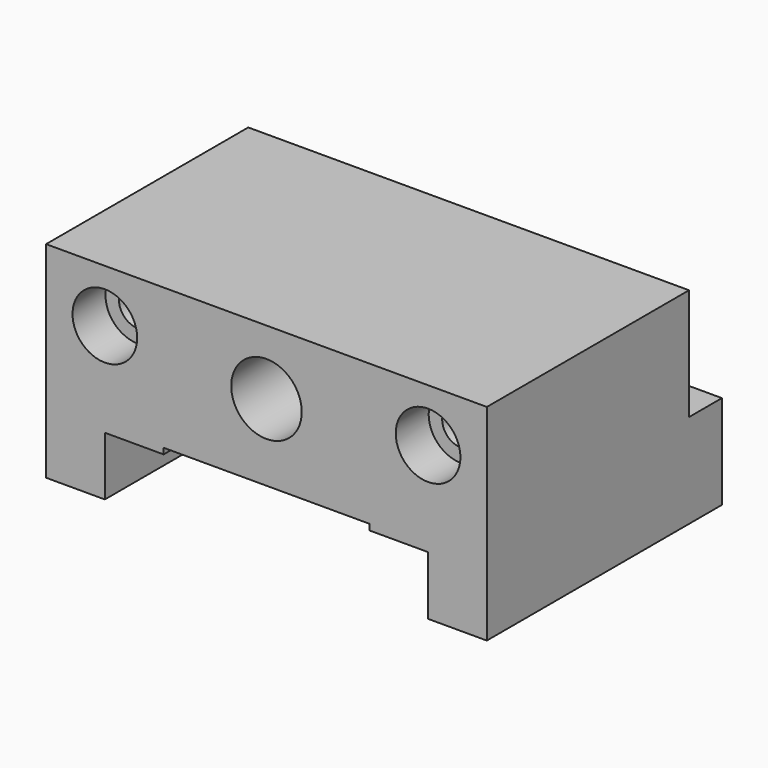
from build123d import *

# Parameters (mm, degrees)
F1_DEPTH       = 25
F2_W           = 7
F2_H           = 19
F3_DEPTH       = 37.501
F5_D           = 4.2
F5_DEPTH       = 12
F5_TIP         = 1.2618073
F7_D           = 6.4
F7_CBORE_D     = 11
F7_CBORE_DEPTH = 7
F9_R           = 6
F10_DEPTH      = 20


with BuildPart() as f1:
    # F0 (on Front) → F1 (new body, symmetric)
    with BuildSketch(Plane.XZ):
        Polygon((-17.5, 0), (0, 0), (0, 24), (-37.5, 24), (-37.5, -11), (-27.5, -11), (-27.5, -1), (-17.5, -1), align=None)
    extrude(amount=F1_DEPTH, both=True)

    # F2 (on Right) → F3 (cut, through all)
    with BuildSketch(Plane.YZ):
        with Locations((21.5, 14.5)):
            Rectangle(F2_W, F2_H)
    extrude(amount=-F3_DEPTH, mode=Mode.SUBTRACT)

    # F5
    with Locations(Plane(origin=(0, 0, -11), x_dir=(1, 0, 0), z_dir=(0, 0, -1))):
        with Locations((-32.5, 18), (-32.5, -18)):
            Hole(F5_D / 2, depth=F5_DEPTH)
            with Locations((0, 0, -(F5_DEPTH + F5_TIP / 2))):  # 118° drill point
                Cone(0, F5_D / 2, F5_TIP, mode=Mode.SUBTRACT)

    # F7 (through all)
    with Locations(Plane.XZ.offset(25)):
        with Locations((-27.5, 15)):
            CounterBoreHole(F7_D / 2, F7_CBORE_D / 2, F7_CBORE_DEPTH)

    # F8: F1 across plane


with BuildPart() as f1_1:
    add(f1.part)
    add(f1.part.mirror(Plane.YZ))

    # F9 (on face) → F10 (cut)
    with BuildSketch(Plane.XZ.offset(25)):
        with Locations((0, 13)):
            Circle(F9_R)
    extrude(amount=-F10_DEPTH, mode=Mode.SUBTRACT)


solid = f1_1.part
